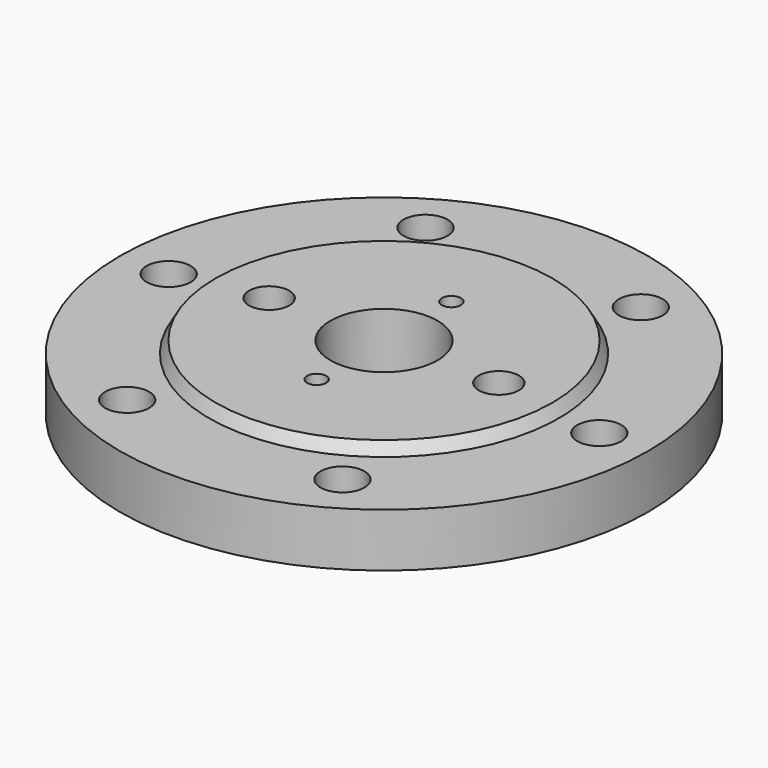
from build123d import *

# Parameters (mm, degrees)
F2_R     = 11.5
F3_DEPTH = 81.001
F4_DEPTH = 28
F6_D     = 21
F6_DEPTH = 33
F6_TIP   = 6.3090364998
F7_D     = 10
F7_DEPTH = 18
F7_TIP   = 3.0043030951


with BuildPart() as f1:
    # F0 (on Front) → F1 (revolve)
    with BuildSketch(Plane.XZ):
        Polygon((-28, -37.9619441777), (-28, 12.0380558223), (-88, 12.0380558223), (-91.4641016151, 6.0380558223), (-138, 6.0380558223), (-138, -21.9619441777), (-81, -21.9619441777), (-81, -27.9619441777), (-35, -74.9619441777), (-14, -74.9619441777), (-14, -46.0448479464), align=None)
    revolve(axis=Axis((0, 0, -17.8461521864), (0, 0, -1)))

    # F2 (on face) → F3 (cut, through all)
    with BuildSketch(Plane.XY.offset(6.0380558223)):
        with Locations((-112.5, 0)):
            Circle(F2_R)
    extrude(amount=-F3_DEPTH, mode=Mode.SUBTRACT)

    # F2 (on face) → F4 (cut, through all)
    with BuildSketch(Plane.XY.offset(6.0380558223)):
        with Locations((-56.25, 97.4278579257)):
            Circle(F2_R)
        with Locations((56.25, 97.4278579257)):
            Circle(F2_R)
        with Locations((112.5, 0)):
            Circle(F2_R)
        with Locations((56.25, -97.4278579257)):
            Circle(F2_R)
        with Locations((-56.25, -97.4278579257)):
            Circle(F2_R)
    extrude(amount=-F4_DEPTH, mode=Mode.SUBTRACT)

    # F6
    with Locations(Plane.XY.offset(12.0380558223)):
        with Locations((-60, 0), (60, 0)):
            Hole(F6_D / 2, depth=F6_DEPTH)
            with Locations((0, 0, -(F6_DEPTH + F6_TIP / 2))):  # 118° drill point
                Cone(0, F6_D / 2, F6_TIP, mode=Mode.SUBTRACT)

    # F7
    with Locations(Plane.XY.offset(12.0380558223)):
        with Locations((0, 44), (0, -44)):
            Hole(F7_D / 2, depth=F7_DEPTH)
            with Locations((0, 0, -(F7_DEPTH + F7_TIP / 2))):  # 118° drill point
                Cone(0, F7_D / 2, F7_TIP, mode=Mode.SUBTRACT)


solid = f1.part
